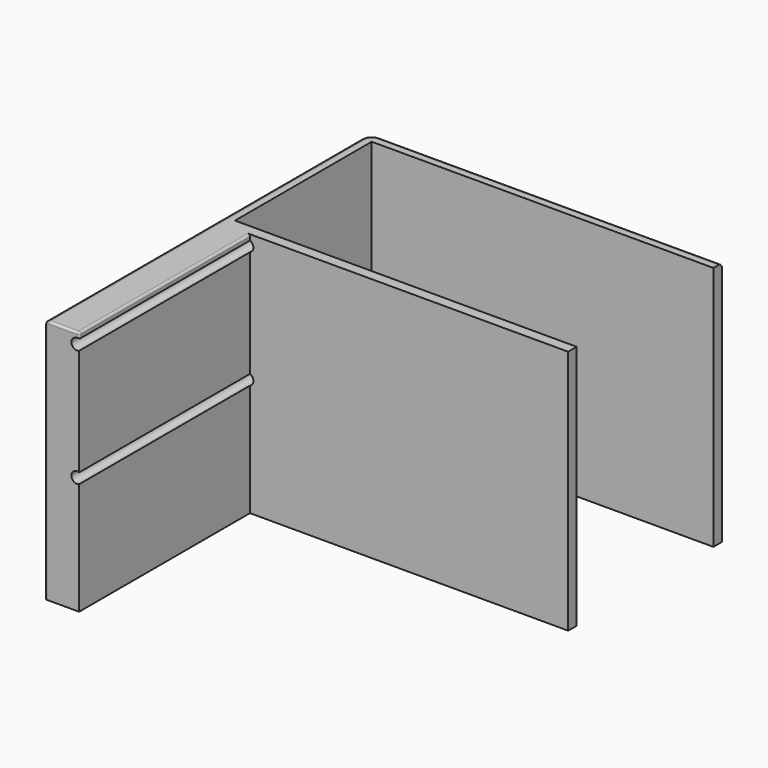
from build123d import *

# Parameters (mm, degrees)
SKETCH_W        = 330
SKETCH_H        = 90
PAD_DEPTH       = 260
SKETCH001_W     = 320
SKETCH001_H     = 80
POCKET_DEPTH    = 250
SKETCH002_W     = 16
SKETCH002_H     = 260
PAD001_DEPTH    = 100
SKETCH003_R     = 2.625
POCKET001_DEPTH = 105
FILLET_R        = 5
FILLET001_R     = 5
FILLET002_R     = 5
FILLET003_R     = 2
FILLET004_R     = 1
FILLET005_R     = 1
FILLET006_R     = 1
FILLET007_R     = 1
SKETCH004_W     = 298
SKETCH004_H     = 5
PAD002_DEPTH    = 100
FILLET008_R     = 1
SKETCH005_W     = 390
SKETCH005_H     = 230
POCKET002_DEPTH = 145
SKETCH006_W     = 165
SKETCH006_H     = 230
POCKET003_DEPTH = 300


with BuildPart() as part:
    # Sketch → Pad (new body)
    with BuildSketch(Plane.XY):
        with Locations((165, 45)):
            Rectangle(SKETCH_W, SKETCH_H)
    extrude(amount=PAD_DEPTH)

    # Sketch001 (on Face6 of Pad) → Pocket (cut)
    with BuildSketch(Plane.XY.offset(260)):
        with Locations((165, 45)):
            Rectangle(SKETCH001_W, SKETCH001_H)
    extrude(amount=-POCKET_DEPTH, mode=Mode.SUBTRACT)

    # Sketch002 (on Face1 of Pocket) → Pad001 (join)
    with BuildSketch(Plane.XZ):
        with Locations((8, 130)):
            Rectangle(SKETCH002_W, SKETCH002_H)
        with Locations((322, 130)):
            Rectangle(SKETCH002_W, SKETCH002_H)
    extrude(amount=PAD001_DEPTH)

    # Sketch003 (on Face18 of Pad001) → Pocket001 (cut)
    with BuildSketch(Plane.XZ.offset(100)):
        with Locations((15, 40)):
            Circle(SKETCH003_R)
        with Locations((315, 40)):
            Circle(SKETCH003_R)
        with Locations((15, 120)):
            Circle(SKETCH003_R)
        with Locations((315, 120)):
            Circle(SKETCH003_R)
        with Locations((15, 200)):
            Circle(SKETCH003_R)
        with Locations((315, 200)):
            Circle(SKETCH003_R)
        with Locations((15, 255)):
            Circle(SKETCH003_R)
        with Locations((315, 255)):
            Circle(SKETCH003_R)
    extrude(amount=-POCKET001_DEPTH, mode=Mode.SUBTRACT)

    # Fillet
    fillet_edges = [part.edges().sort_by_distance(p)[0] for p in [
        (0, 45, 0),
    ]]
    fillet(fillet_edges, radius=FILLET_R)

    # Fillet001
    fillet001_edges = [part.edges().sort_by_distance(p)[0] for p in [
        (330, 45, 0),
    ]]
    fillet(fillet001_edges, radius=FILLET001_R)

    # Fillet002
    fillet002_edges = [part.edges().sort_by_distance(p)[0] for p in [
        (165, 90, 0),
    ]]
    fillet(fillet002_edges, radius=FILLET002_R)

    # Fillet003
    fillet003_edges = [part.edges().sort_by_distance(p)[0] for p in [
        (0, -50, 260),
    ]]
    fillet(fillet003_edges, radius=FILLET003_R)

    # Fillet004
    fillet004_edges = [part.edges().sort_by_distance(p)[0] for p in [
        (9, -100, 260),
    ]]
    fillet(fillet004_edges, radius=FILLET004_R)

    # Fillet005
    fillet005_edges = [part.edges().sort_by_distance(p)[0] for p in [
        (16, -49.5, 260),
    ]]
    fillet(fillet005_edges, radius=FILLET005_R)

    # Fillet006
    fillet006_edges = [part.edges().sort_by_distance(p)[0] for p in [
        (321, -100, 260),
    ]]
    fillet(fillet006_edges, radius=FILLET006_R)

    # Fillet007
    fillet007_edges = [part.edges().sort_by_distance(p)[0] for p in [
        (314, -49.5, 260),
    ]]
    fillet(fillet007_edges, radius=FILLET007_R)

    # Sketch004 (on Face4 of Fillet007) → Pad002 (join)
    with BuildSketch(Plane.XZ):
        with Locations((165, 2.5)):
            Rectangle(SKETCH004_W, SKETCH004_H)
    extrude(amount=PAD002_DEPTH)

    # Fillet008
    fillet008_edges = [part.edges().sort_by_distance(p)[0] for p in [
        (165, -100, 0),
    ]]
    fillet(fillet008_edges, radius=FILLET008_R)

    # Sketch005 (on Face7 of Fillet008) → Pocket002 (cut)
    with BuildSketch(Plane(origin=(0, 0, 0), x_dir=(1, 0, 0), z_dir=(0, 0, -1))):
        with Locations((175, 0)):
            Rectangle(SKETCH005_W, SKETCH005_H)
    extrude(amount=-POCKET002_DEPTH, mode=Mode.SUBTRACT)

    # Sketch006 (on Face46 of Pocket002) → Pocket003 (cut)
    with BuildSketch(Plane.XY.offset(260)):
        with Locations((247.5, 0)):
            Rectangle(SKETCH006_W, SKETCH006_H)
    extrude(amount=-POCKET003_DEPTH, mode=Mode.SUBTRACT)


solid = part.part
